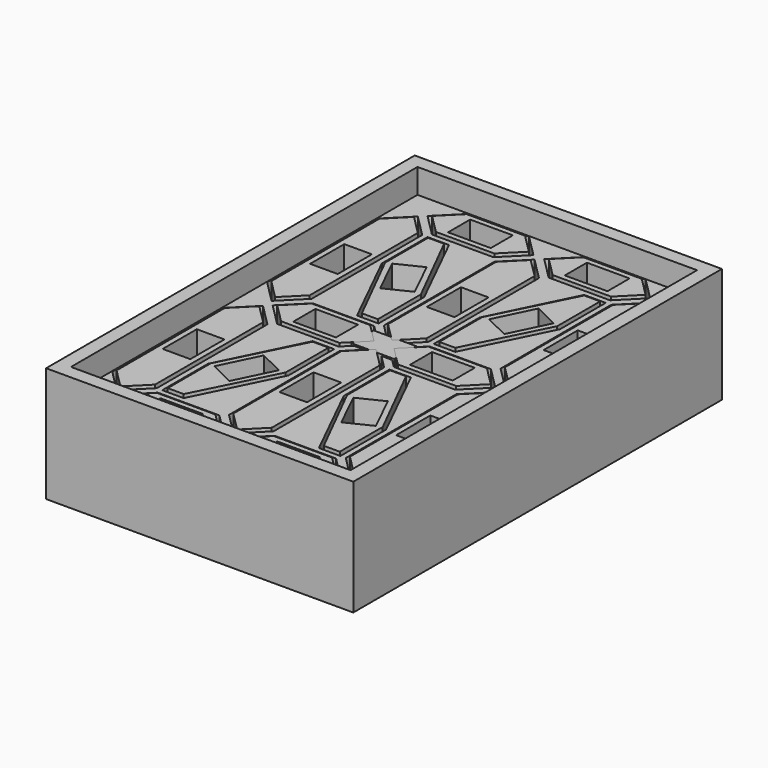
from build123d import *

# Parameters (mm, degrees)
SKETCH001_W             = 3.5306
SKETCH001_H             = 2.286
PAD_DEPTH               = 4.1148
SKETCH076_W             = 23.114
SKETCH076_H             = 35.814
PAD075_DEPTH            = 2.032
PAD019_DEPTH            = 7.62
PAD028_DEPTH            = 7.62
PAD020_DEPTH            = 7.62
PAD029_DEPTH            = 7.62
PAD027_DEPTH            = 7.62
PAD031_DEPTH            = 7.62
PAD025_DEPTH            = 7.62
PAD022_DEPTH            = 7.62
PAD032_DEPTH            = 7.62
PAD026_DEPTH            = 7.62
PAD023_DEPTH            = 7.62
PAD030_DEPTH            = 7.62
PAD033_DEPTH            = 7.62
PAD021_DEPTH            = 7.62
PAD024_DEPTH            = 7.62
PAD034_DEPTH            = 7.62
SKETCH_W                = 25.4
SKETCH_H                = 38.1
PAD035_DEPTH            = 9.525
SKETCH082_W             = 3.5306
SKETCH082_H             = 2.286
PAD081_DEPTH            = 4.1148
BODY080_PLACEMENT_ANGLE = 64
PAD018_DEPTH            = 7.62
SKETCH081_W             = 3.5306
SKETCH081_H             = 2.286
PAD080_DEPTH            = 4.1148
BODY079_PLACEMENT_ANGLE = 90
PAD011_DEPTH            = 7.62
SKETCH083_W             = 3.5306
SKETCH083_H             = 2.286
PAD082_DEPTH            = 4.1148
BODY081_PLACEMENT_ANGLE = 64
PAD017_DEPTH            = 7.62
SKETCH090_W             = 3.5306
SKETCH090_H             = 2.286
PAD089_DEPTH            = 4.1148
PAD007_DEPTH            = 7.62
SKETCH080_W             = 3.5306
SKETCH080_H             = 2.286
PAD079_DEPTH            = 4.1148
BODY078_PLACEMENT_ANGLE = 64
PAD015_DEPTH            = 7.62
SKETCH088_W             = 3.5306
SKETCH088_H             = 2.286
PAD087_DEPTH            = 4.1148
PAD008_DEPTH            = 7.62
SKETCH084_W             = 3.5306
SKETCH084_H             = 2.286
PAD083_DEPTH            = 4.1148
BODY082_PLACEMENT_ANGLE = 90
PAD013_DEPTH            = 7.62
SKETCH087_W             = 3.5306
SKETCH087_H             = 2.286
PAD086_DEPTH            = 4.1148
PAD006_DEPTH            = 7.62
SKETCH079_W             = 3.5306
SKETCH079_H             = 2.286
PAD078_DEPTH            = 4.1148
BODY077_PLACEMENT_ANGLE = 64
PAD016_DEPTH            = 7.62
SKETCH085_W             = 3.5306
SKETCH085_H             = 2.286
PAD084_DEPTH            = 4.1148
BODY083_PLACEMENT_ANGLE = 90
PAD010_DEPTH            = 7.62
SKETCH089_W             = 3.5306
SKETCH089_H             = 2.286
PAD088_DEPTH            = 4.1148
PAD009_DEPTH            = 7.62
SKETCH078_W             = 3.5306
SKETCH078_H             = 2.286
PAD077_DEPTH            = 4.1148
PAD003_DEPTH            = 7.62
SKETCH086_W             = 3.5306
SKETCH086_H             = 2.286
PAD085_DEPTH            = 4.1148
BODY084_PLACEMENT_ANGLE = 90
PAD014_DEPTH            = 7.62
SKETCH091_W             = 3.5306
SKETCH091_H             = 2.286
PAD090_DEPTH            = 4.1148
BODY089_PLACEMENT_ANGLE = 90
PAD005_DEPTH            = 7.62
SKETCH092_W             = 3.5306
SKETCH092_H             = 2.286
PAD091_DEPTH            = 4.1148
BODY090_PLACEMENT_ANGLE = 90
PAD004_DEPTH            = 7.62
SKETCH077_W             = 3.5306
SKETCH077_H             = 2.286
PAD076_DEPTH            = 4.1148
PAD002_DEPTH            = 7.62


with BuildPart() as led001:
    # Sketch001 → Pad (new body)
    with BuildSketch(Plane.XY):
        Rectangle(SKETCH001_W, SKETCH001_H)
    extrude(amount=PAD_DEPTH)


with BuildPart() as led001_1:
    # Body001 placement: moved
    add(led001.part.moved(Location((0, 0, 3.5052))))


with BuildPart() as body074:
    # Sketch076 → Pad075 (new body)
    with BuildSketch(Plane.XY):
        Rectangle(SKETCH076_W, SKETCH076_H)
    extrude(amount=PAD075_DEPTH)


with BuildPart() as body074_1:
    # Body074 placement: moved
    add(body074.part.moved(Location((0, 0, 7.493))))


with BuildPart() as body020:
    # Sketch020 → Pad019 (new body)
    with BuildSketch(Plane.XY):
        Polygon((-4.3815, 0), (-2.54, 1.8415), (2.54, 1.8415), (4.3815, 0), (2.54, -1.8415), (-2.54, -1.8415), align=None)
    extrude(amount=PAD019_DEPTH)


with BuildPart() as body020_1:
    # Body020 placement: moved
    add(body020.part.moved(Location((-4.826, 0, 0))))


with BuildPart() as body029:
    # Sketch029 → Pad028 (new body)
    with BuildSketch(Plane.XY):
        Polygon((0, 0.4445), (-1.8415, 2.286), (-1.8415, 13.716), (0, 15.5575), (1.8415, 13.716), (1.8415, 2.286), align=None)
    extrude(amount=PAD028_DEPTH)


with BuildPart() as body029_1:
    # Body029 placement: moved
    add(body029.part.moved(Location((9.652, 0, 0))))


with BuildPart() as body021:
    # Sketch021 → Pad020 (new body)
    with BuildSketch(Plane.XY):
        Polygon((-4.3815, 0), (-2.54, 1.8415), (2.54, 1.8415), (4.3815, 0), (2.54, -1.8415), (-2.54, -1.8415), align=None)
    extrude(amount=PAD020_DEPTH)


with BuildPart() as body021_1:
    # Body021 placement: moved
    add(body021.part.moved(Location((4.826, 0, 0))))


with BuildPart() as body030:
    # Sketch030 → Pad029 (new body)
    with BuildSketch(Plane.XY):
        Polygon((0, 0.4445), (-1.8415, 2.286), (-1.8415, 13.716), (0, 15.5575), (1.8415, 13.716), (1.8415, 2.286), align=None)
    extrude(amount=PAD029_DEPTH)


with BuildPart() as body030_1:
    # Body030 placement: moved
    add(body030.part.moved(Location((-9.652, -16.002, 0))))


with BuildPart() as body028:
    # Sketch028 → Pad027 (new body)
    with BuildSketch(Plane.XY):
        Polygon((0, 0.4445), (-1.8415, 2.286), (-1.8415, 13.716), (0, 15.5575), (1.8415, 13.716), (1.8415, 2.286), align=None)
    extrude(amount=PAD027_DEPTH)


with BuildPart() as body028_1:
    # Body028 placement: moved
    add(body028.part.moved(Location((-9.652, 0, 0))))


with BuildPart() as body032:
    # Sketch032 → Pad031 (new body)
    with BuildSketch(Plane.XY):
        Polygon((-7.366, 13.706584), (-7.366, 8.983899), (-4.064, 2.286), (-2.286, 2.286), (-2.286, 7.008685), (-5.588, 13.706584), align=None)
    extrude(amount=PAD031_DEPTH)


with BuildPart() as body026:
    # Sketch026 → Pad025 (new body)
    with BuildSketch(Plane.XY):
        Polygon((-4.3815, 0), (-2.54, 1.8415), (2.54, 1.8415), (4.3815, 0), (2.54, -1.8415), (-2.54, -1.8415), align=None)
    extrude(amount=PAD025_DEPTH)


with BuildPart() as body026_1:
    # Body026 placement: moved
    add(body026.part.moved(Location((-4.826, -16.002, 0))))


with BuildPart() as body023:
    # Sketch023 → Pad022 (new body)
    with BuildSketch(Plane.XY):
        Polygon((0, 0.4445), (-1.8415, 2.286), (-1.8415, 13.716), (0, 15.5575), (1.8415, 13.716), (1.8415, 2.286), align=None)
    extrude(amount=PAD022_DEPTH)


with BuildPart() as body023_1:
    # Body023 placement: moved
    add(body023.part.moved(Location((0, -16.002, 0))))


with BuildPart() as body033:
    # Sketch033 → Pad032 (new body)
    with BuildSketch(Plane.XY):
        Polygon((-7.366, 13.706584), (-7.366, 8.983899), (-4.064, 2.286), (-2.286, 2.286), (-2.286, 7.008685), (-5.588, 13.706584), align=None)
    extrude(amount=PAD032_DEPTH)


with BuildPart() as body033_1:
    # Body033 placement: moved
    add(body033.part.moved(Location((9.652, -16.002, 0))))


with BuildPart() as body027:
    # Sketch027 → Pad026 (new body)
    with BuildSketch(Plane.XY):
        Polygon((-4.3815, 0), (-2.54, 1.8415), (2.54, 1.8415), (4.3815, 0), (2.54, -1.8415), (-2.54, -1.8415), align=None)
    extrude(amount=PAD026_DEPTH)


with BuildPart() as body027_1:
    # Body027 placement: moved
    add(body027.part.moved(Location((4.826, -16.002, 0))))


with BuildPart() as body024:
    # Sketch024 → Pad023 (new body)
    with BuildSketch(Plane.XY):
        Polygon((-4.3815, 0), (-2.54, 1.8415), (2.54, 1.8415), (4.3815, 0), (2.54, -1.8415), (-2.54, -1.8415), align=None)
    extrude(amount=PAD023_DEPTH)


with BuildPart() as body024_1:
    # Body024 placement: moved
    add(body024.part.moved(Location((-4.826, 16.002, 0))))


with BuildPart() as body031:
    # Sketch031 → Pad030 (new body)
    with BuildSketch(Plane.XY):
        Polygon((0, 0.4445), (-1.8415, 2.286), (-1.8415, 13.716), (0, 15.5575), (1.8415, 13.716), (1.8415, 2.286), align=None)
    extrude(amount=PAD030_DEPTH)


with BuildPart() as body031_1:
    # Body031 placement: moved
    add(body031.part.moved(Location((9.652, -16.002, 0))))


with BuildPart() as body034:
    # Sketch034 → Pad033 (new body)
    with BuildSketch(Plane(origin=(0, 0, 0), x_dir=(-1, 0, 0), z_dir=(0, 0, -1))):
        Polygon((-7.366, 13.706584), (-7.366, 8.983899), (-4.064, 2.286), (-2.286, 2.286), (-2.286, 7.008685), (-5.588, 13.706584), align=None)
    extrude(amount=-PAD033_DEPTH)


with BuildPart() as body022:
    # Sketch022 → Pad021 (new body)
    with BuildSketch(Plane.XY):
        Polygon((0, 0.4445), (-1.8415, 2.286), (-1.8415, 13.716), (0, 15.5575), (1.8415, 13.716), (1.8415, 2.286), align=None)
    extrude(amount=PAD021_DEPTH)


with BuildPart() as body025:
    # Sketch025 → Pad024 (new body)
    with BuildSketch(Plane.XY):
        Polygon((-4.3815, 0), (-2.54, 1.8415), (2.54, 1.8415), (4.3815, 0), (2.54, -1.8415), (-2.54, -1.8415), align=None)
    extrude(amount=PAD024_DEPTH)


with BuildPart() as body025_1:
    # Body025 placement: moved
    add(body025.part.moved(Location((4.826, 16.002, 0))))


with BuildPart() as digit_holes:
    # Sketch035 → Pad034 (new body)
    with BuildSketch(Plane(origin=(0, 0, 0), x_dir=(-1, 0, 0), z_dir=(0, 0, -1))):
        Polygon((-7.366, 13.706584), (-7.366, 8.983899), (-4.064, 2.286), (-2.286, 2.286), (-2.286, 7.008685), (-5.588, 13.706584), align=None)
    extrude(amount=-PAD034_DEPTH)


with BuildPart() as digit_holes_1:
    # Body035 placement: moved
    add(digit_holes.part.moved(Location((-9.652, -16.002, 0))))

    # Fusion001: union Body020, Body029, Body021, Body030, Body028, Body032, Body026, Body023, Body033, Body027, Body024, Body031, Body034, Body022, Body025
    add(body020_1.part)
    add(body029_1.part)
    add(body021_1.part)
    add(body030_1.part)
    add(body028_1.part)
    add(body032.part)
    add(body026_1.part)
    add(body023_1.part)
    add(body033_1.part)
    add(body027_1.part)
    add(body024_1.part)
    add(body031_1.part)
    add(body034.part)
    add(body022.part)
    add(body025_1.part)


with BuildPart() as frame:
    # Sketch → Pad035 (new body)
    with BuildSketch(Plane.XY):
        Rectangle(SKETCH_W, SKETCH_H)
    extrude(amount=PAD035_DEPTH)

    # Cut: cut Digit-holes
    add(digit_holes_1.part, mode=Mode.SUBTRACT)

    # Cut001: cut Body074
    add(body074_1.part, mode=Mode.SUBTRACT)


with BuildPart() as led007:
    # Sketch082 → Pad081 (new body)
    with BuildSketch(Plane.XY):
        Rectangle(SKETCH082_W, SKETCH082_H)
    extrude(amount=PAD081_DEPTH)


with BuildPart() as led007_1:
    # Body080 placement: moved
    add(led007.part.moved(Location((-4.8768, -8.1026, 3.5052))).rotate(Axis((-4.8768, -8.1026, 3.5052), (0, 0, 1)), BODY080_PLACEMENT_ANGLE))


with BuildPart() as cut007:
    # Sketch019 → Pad018 (new body)
    with BuildSketch(Plane(origin=(0, 0, 0), x_dir=(-1, 0, 0), z_dir=(0, 0, -1))):
        Polygon((-7.112, 13.45184), (-7.112, 9.009351), (-3.8608, 2.54), (-2.54, 2.54), (-2.54, 6.982489), (-5.7912, 13.45184), align=None)
    extrude(amount=-PAD018_DEPTH)


with BuildPart() as cut007_1:
    # Body019 placement: moved
    add(cut007.part.moved(Location((-9.652, -16.002, 0))))

    # Cut007: cut led007
    add(led007_1.part, mode=Mode.SUBTRACT)


with BuildPart() as led006:
    # Sketch081 → Pad080 (new body)
    with BuildSketch(Plane.XY):
        Rectangle(SKETCH081_W, SKETCH081_H)
    extrude(amount=PAD080_DEPTH)


with BuildPart() as led006_1:
    # Body079 placement: moved
    add(led006.part.moved(Location((9.652, 7.62, 3.5052))).rotate(Axis((9.652, 7.62, 3.5052), (0, 0, 1)), BODY079_PLACEMENT_ANGLE))


with BuildPart() as cut006:
    # Sketch012 → Pad011 (new body)
    with BuildSketch(Plane.XY):
        Polygon((0, 0.8255), (-1.5875, 2.413), (-1.5875, 13.589), (0, 15.1765), (1.5875, 13.589), (1.5875, 2.413), align=None)
    extrude(amount=PAD011_DEPTH)


with BuildPart() as cut006_1:
    # Body012 placement: moved
    add(cut006.part.moved(Location((9.652, 0, 0))))

    # Cut006: cut led006
    add(led006_1.part, mode=Mode.SUBTRACT)


with BuildPart() as led008:
    # Sketch083 → Pad082 (new body)
    with BuildSketch(Plane.XY):
        Rectangle(SKETCH083_W, SKETCH083_H)
    extrude(amount=PAD082_DEPTH)


with BuildPart() as led008_1:
    # Body081 placement: moved
    add(led008.part.moved(Location((4.8768, 8.1026, 3.5052))).rotate(Axis((4.8768, 8.1026, 3.5052), (0, 0, 1)), BODY081_PLACEMENT_ANGLE))


with BuildPart() as cut008:
    # Sketch018 → Pad017 (new body)
    with BuildSketch(Plane(origin=(0, 0, 0), x_dir=(-1, 0, 0), z_dir=(0, 0, -1))):
        Polygon((-7.112, 13.45184), (-7.112, 9.009351), (-3.8608, 2.54), (-2.54, 2.54), (-2.54, 6.982489), (-5.7912, 13.45184), align=None)
    extrude(amount=-PAD017_DEPTH)

    # Cut008: cut led008
    add(led008_1.part, mode=Mode.SUBTRACT)


with BuildPart() as led015:
    # Sketch090 → Pad089 (new body)
    with BuildSketch(Plane.XY):
        Rectangle(SKETCH090_W, SKETCH090_H)
    extrude(amount=PAD089_DEPTH)


with BuildPart() as led015_1:
    # Body088 placement: moved
    add(led015.part.moved(Location((4.826, 16.002, 3.5052))))


with BuildPart() as cut015:
    # Sketch008 → Pad007 (new body)
    with BuildSketch(Plane.XY):
        Polygon((-4.0005, 0), (-2.413, 1.5875), (2.413, 1.5875), (4.0005, 0), (2.413, -1.5875), (-2.413, -1.5875), align=None)
    extrude(amount=PAD007_DEPTH)


with BuildPart() as cut015_1:
    # Body008 placement: moved
    add(cut015.part.moved(Location((4.826, 16.002, 0))))

    # Cut015: cut led015
    add(led015_1.part, mode=Mode.SUBTRACT)


with BuildPart() as led005:
    # Sketch080 → Pad079 (new body)
    with BuildSketch(Plane.XY):
        Rectangle(SKETCH080_W, SKETCH080_H)
    extrude(amount=PAD079_DEPTH)


with BuildPart() as led005_1:
    # Body078 placement: moved
    add(led005.part.moved(Location((-4.8768, 8.1026, 3.5052))).rotate(Axis((-4.8768, 8.1026, 3.5052), (0, 0, -1)), BODY078_PLACEMENT_ANGLE))


with BuildPart() as cut005:
    # Sketch016 → Pad015 (new body)
    with BuildSketch(Plane.XY):
        Polygon((-7.112, 13.45184), (-7.112, 9.009351), (-3.8608, 2.54), (-2.54, 2.54), (-2.54, 6.982489), (-5.7912, 13.45184), align=None)
    extrude(amount=PAD015_DEPTH)

    # Cut005: cut led005
    add(led005_1.part, mode=Mode.SUBTRACT)


with BuildPart() as led013:
    # Sketch088 → Pad087 (new body)
    with BuildSketch(Plane.XY):
        Rectangle(SKETCH088_W, SKETCH088_H)
    extrude(amount=PAD087_DEPTH)


with BuildPart() as led013_1:
    # Body086 placement: moved
    add(led013.part.moved(Location((-4.826, -16.002, 3.5052))))


with BuildPart() as cut013:
    # Sketch009 → Pad008 (new body)
    with BuildSketch(Plane.XY):
        Polygon((-4.0005, 0), (-2.413, 1.5875), (2.413, 1.5875), (4.0005, 0), (2.413, -1.5875), (-2.413, -1.5875), align=None)
    extrude(amount=PAD008_DEPTH)


with BuildPart() as cut013_1:
    # Body009 placement: moved
    add(cut013.part.moved(Location((-4.826, -16.002, 0))))

    # Cut013: cut led013
    add(led013_1.part, mode=Mode.SUBTRACT)


with BuildPart() as led009:
    # Sketch084 → Pad083 (new body)
    with BuildSketch(Plane.XY):
        Rectangle(SKETCH084_W, SKETCH084_H)
    extrude(amount=PAD083_DEPTH)


with BuildPart() as led009_1:
    # Body082 placement: moved
    add(led009.part.moved(Location((-9.652, -7.62, 3.5052))).rotate(Axis((-9.652, -7.62, 3.5052), (0, 0, 1)), BODY082_PLACEMENT_ANGLE))


with BuildPart() as cut009:
    # Sketch014 → Pad013 (new body)
    with BuildSketch(Plane.XY):
        Polygon((0, 0.8255), (-1.5875, 2.413), (-1.5875, 13.589), (0, 15.1765), (1.5875, 13.589), (1.5875, 2.413), align=None)
    extrude(amount=PAD013_DEPTH)


with BuildPart() as cut009_1:
    # Body014 placement: moved
    add(cut009.part.moved(Location((-9.652, -16.002, 0))))

    # Cut009: cut led009
    add(led009_1.part, mode=Mode.SUBTRACT)


with BuildPart() as led012:
    # Sketch087 → Pad086 (new body)
    with BuildSketch(Plane.XY):
        Rectangle(SKETCH087_W, SKETCH087_H)
    extrude(amount=PAD086_DEPTH)


with BuildPart() as led012_1:
    # Body085 placement: moved
    add(led012.part.moved(Location((-4.826, 16.002, 3.5052))))


with BuildPart() as cut012:
    # Sketch007 → Pad006 (new body)
    with BuildSketch(Plane.XY):
        Polygon((-4.0005, 0), (-2.413, 1.5875), (2.413, 1.5875), (4.0005, 0), (2.413, -1.5875), (-2.413, -1.5875), align=None)
    extrude(amount=PAD006_DEPTH)


with BuildPart() as cut012_1:
    # Body007 placement: moved
    add(cut012.part.moved(Location((-4.826, 16.002, 0))))

    # Cut012: cut led012
    add(led012_1.part, mode=Mode.SUBTRACT)


with BuildPart() as led004:
    # Sketch079 → Pad078 (new body)
    with BuildSketch(Plane.XY):
        Rectangle(SKETCH079_W, SKETCH079_H)
    extrude(amount=PAD078_DEPTH)


with BuildPart() as led004_1:
    # Body077 placement: moved
    add(led004.part.moved(Location((4.8768, -8.1026, 3.5052))).rotate(Axis((4.8768, -8.1026, 3.5052), (0, 0, -1)), BODY077_PLACEMENT_ANGLE))


with BuildPart() as cut004:
    # Sketch017 → Pad016 (new body)
    with BuildSketch(Plane.XY):
        Polygon((-7.112, 13.45184), (-7.112, 9.009351), (-3.8608, 2.54), (-2.54, 2.54), (-2.54, 6.982489), (-5.7912, 13.45184), align=None)
    extrude(amount=PAD016_DEPTH)


with BuildPart() as cut004_1:
    # Body017 placement: moved
    add(cut004.part.moved(Location((9.652, -16.002, 0))))

    # Cut004: cut led004
    add(led004_1.part, mode=Mode.SUBTRACT)


with BuildPart() as led010:
    # Sketch085 → Pad084 (new body)
    with BuildSketch(Plane.XY):
        Rectangle(SKETCH085_W, SKETCH085_H)
    extrude(amount=PAD084_DEPTH)


with BuildPart() as led010_1:
    # Body083 placement: moved
    add(led010.part.moved(Location((-9.652, 7.62, 3.5052))).rotate(Axis((-9.652, 7.62, 3.5052), (0, 0, 1)), BODY083_PLACEMENT_ANGLE))


with BuildPart() as cut010:
    # Sketch011 → Pad010 (new body)
    with BuildSketch(Plane.XY):
        Polygon((0, 0.8128), (-1.5875, 2.4003), (-1.5875, 13.5763), (0, 15.1638), (1.5875, 13.5763), (1.5875, 2.4003), align=None)
    extrude(amount=PAD010_DEPTH)


with BuildPart() as cut010_1:
    # Body011 placement: moved
    add(cut010.part.moved(Location((-9.652, 0, 0))))

    # Cut010: cut led010
    add(led010_1.part, mode=Mode.SUBTRACT)


with BuildPart() as led014:
    # Sketch089 → Pad088 (new body)
    with BuildSketch(Plane.XY):
        Rectangle(SKETCH089_W, SKETCH089_H)
    extrude(amount=PAD088_DEPTH)


with BuildPart() as led014_1:
    # Body087 placement: moved
    add(led014.part.moved(Location((4.826, -16.002, 3.5052))))


with BuildPart() as cut014:
    # Sketch010 → Pad009 (new body)
    with BuildSketch(Plane.XY):
        Polygon((-4.0005, 0), (-2.413, 1.5875), (2.413, 1.5875), (4.0005, 0), (2.413, -1.5875), (-2.413, -1.5875), align=None)
    extrude(amount=PAD009_DEPTH)


with BuildPart() as cut014_1:
    # Body010 placement: moved
    add(cut014.part.moved(Location((4.826, -16.002, 0))))

    # Cut014: cut led014
    add(led014_1.part, mode=Mode.SUBTRACT)


with BuildPart() as led003:
    # Sketch078 → Pad077 (new body)
    with BuildSketch(Plane.XY):
        Rectangle(SKETCH078_W, SKETCH078_H)
    extrude(amount=PAD077_DEPTH)


with BuildPart() as led003_1:
    # Body076 placement: moved
    add(led003.part.moved(Location((4.826, 0, 3.5052))))


with BuildPart() as cut003:
    # Sketch004 → Pad003 (new body)
    with BuildSketch(Plane.XY):
        Polygon((-4.0005, 0), (-2.413, 1.5875), (2.413, 1.5875), (4.0005, 0), (2.413, -1.5875), (-2.413, -1.5875), align=None)
    extrude(amount=PAD003_DEPTH)


with BuildPart() as cut003_1:
    # Body004 placement: moved
    add(cut003.part.moved(Location((4.826, 0, 0))))

    # Cut003: cut led003
    add(led003_1.part, mode=Mode.SUBTRACT)


with BuildPart() as led011:
    # Sketch086 → Pad085 (new body)
    with BuildSketch(Plane.XY):
        Rectangle(SKETCH086_W, SKETCH086_H)
    extrude(amount=PAD085_DEPTH)


with BuildPart() as led011_1:
    # Body084 placement: moved
    add(led011.part.moved(Location((9.652, -7.62, 3.5052))).rotate(Axis((9.652, -7.62, 3.5052), (0, 0, 1)), BODY084_PLACEMENT_ANGLE))


with BuildPart() as cut011:
    # Sketch015 → Pad014 (new body)
    with BuildSketch(Plane.XY):
        Polygon((0, 0.8128), (-1.5875, 2.4003), (-1.5875, 13.5763), (0, 15.1638), (1.5875, 13.5763), (1.5875, 2.4003), align=None)
    extrude(amount=PAD014_DEPTH)


with BuildPart() as cut011_1:
    # Body015 placement: moved
    add(cut011.part.moved(Location((9.652, -16.002, 0))))

    # Cut011: cut led011
    add(led011_1.part, mode=Mode.SUBTRACT)


with BuildPart() as led016:
    # Sketch091 → Pad090 (new body)
    with BuildSketch(Plane.XY):
        Rectangle(SKETCH091_W, SKETCH091_H)
    extrude(amount=PAD090_DEPTH)


with BuildPart() as led016_1:
    # Body089 placement: moved
    add(led016.part.moved(Location((0, -7.62, 3.5052))).rotate(Axis((0, -7.62, 3.5052), (0, 0, 1)), BODY089_PLACEMENT_ANGLE))


with BuildPart() as cut016:
    # Sketch006 → Pad005 (new body)
    with BuildSketch(Plane.XY):
        Polygon((0, 0.8255), (-1.5875, 2.413), (-1.5875, 13.589), (0, 15.1765), (1.5875, 13.589), (1.5875, 2.413), align=None)
    extrude(amount=PAD005_DEPTH)


with BuildPart() as cut016_1:
    # Body006 placement: moved
    add(cut016.part.moved(Location((0, -16.002, 0))))

    # Cut016: cut led016
    add(led016_1.part, mode=Mode.SUBTRACT)


with BuildPart() as led017:
    # Sketch092 → Pad091 (new body)
    with BuildSketch(Plane.XY):
        Rectangle(SKETCH092_W, SKETCH092_H)
    extrude(amount=PAD091_DEPTH)


with BuildPart() as led017_1:
    # Body090 placement: moved
    add(led017.part.moved(Location((0, 7.62, 3.5052))).rotate(Axis((0, 7.62, 3.5052), (0, 0, 1)), BODY090_PLACEMENT_ANGLE))


with BuildPart() as cut017:
    # Sketch005 → Pad004 (new body)
    with BuildSketch(Plane.XY):
        Polygon((0, 0.8128), (-1.5875, 2.4003), (-1.5875, 13.5763), (0, 15.1638), (1.5875, 13.5763), (1.5875, 2.4003), align=None)
    extrude(amount=PAD004_DEPTH)

    # Cut017: cut led017
    add(led017_1.part, mode=Mode.SUBTRACT)


with BuildPart() as led002:
    # Sketch077 → Pad076 (new body)
    with BuildSketch(Plane.XY):
        Rectangle(SKETCH077_W, SKETCH077_H)
    extrude(amount=PAD076_DEPTH)


with BuildPart() as led002_1:
    # Body075 placement: moved
    add(led002.part.moved(Location((-4.826, 0, 3.5052))))


with BuildPart() as digit:
    # Sketch003 → Pad002 (new body)
    with BuildSketch(Plane.XY):
        Polygon((-4.0005, 0), (-2.413, 1.5875), (2.413, 1.5875), (4.0005, 0), (2.413, -1.5875), (-2.413, -1.5875), align=None)
    extrude(amount=PAD002_DEPTH)


with BuildPart() as digit_1:
    # Body003 placement: moved
    add(digit.part.moved(Location((-4.826, 0, 0))))

    # Cut002: cut led002
    add(led002_1.part, mode=Mode.SUBTRACT)

    # Fusion: union Cut007, Cut006, Cut008, Cut015, Cut005, Cut013, Cut009, Cut012, Cut004, Cut010, Cut014, Cut003, Cut011, Cut016, Cut017
    add(cut007_1.part)
    add(cut006_1.part)
    add(cut008.part)
    add(cut015_1.part)
    add(cut005.part)
    add(cut013_1.part)
    add(cut009_1.part)
    add(cut012_1.part)
    add(cut004_1.part)
    add(cut010_1.part)
    add(cut014_1.part)
    add(cut003_1.part)
    add(cut011_1.part)
    add(cut016_1.part)
    add(cut017.part)


solid = Compound([led001_1.part, frame.part, digit_1.part])
